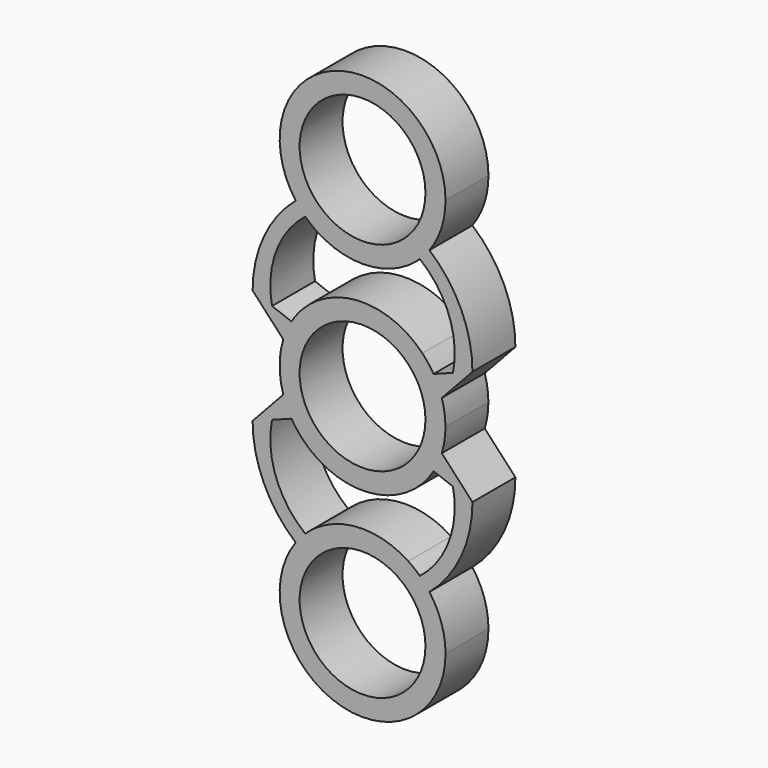
from build123d import *

# Parameters (mm, degrees)
F0_R     = 14.8844
F1_DEPTH = 12.7


with BuildPart() as f1:
    # F0 (on Front) → F1 (new body)
    with BuildSketch(Plane.XZ):
        with BuildLine():
            ThreePointArc((18.753434, -5.755985), (19.39983, -2.910195), (19.616897, 0))
            ThreePointArc((19.616897, 0), (19.39983, 2.910195), (18.753434, 5.755985))
            ThreePointArc((18.753434, 5.755985), (17.912598, 7.997593), (16.804959, 10.12008))
            ThreePointArc((16.804959, 10.12008), (15.580206, 11.919724), (14.163598, 13.572588))
            ThreePointArc((14.163598, 13.572588), (0, 19.616897), (-14.163598, 13.572588))
            ThreePointArc((-14.163598, 13.572588), (-15.580206, 11.919724), (-16.804959, 10.12008))
            ThreePointArc((-16.804959, 10.12008), (-17.912598, 7.997593), (-18.753434, 5.755985))
            ThreePointArc((-18.753434, 5.755985), (-19.616897, 0), (-18.753434, -5.755985))
            ThreePointArc((-18.753434, -5.755985), (-17.912598, -7.997593), (-16.804959, -10.12008))
            ThreePointArc((-16.804959, -10.12008), (-15.580206, -11.919724), (-14.163598, -13.572588))
            ThreePointArc((-14.163598, -13.572588), (0, -19.616897), (14.163598, -13.572588))
            ThreePointArc((14.163598, -13.572588), (15.580206, -11.919724), (16.804959, -10.12008))
            ThreePointArc((16.804959, -10.12008), (17.912598, -7.997593), (18.753434, -5.755985))
        make_face()
        Circle(F0_R, mode=Mode.SUBTRACT)
        with BuildLine():
            ThreePointArc((16.804959, 10.12008), (17.912598, 7.997593), (18.753434, 5.755985))
            Line((18.753434, 5.755985), (26.008787, 13.572588))
            Line((26.008787, 13.572588), (21.406873, 11.846334))
            Line((21.406873, 11.846334), (16.804959, 10.12008))
        make_face()
        with BuildLine():
            Line((26.008787, -13.572588), (18.753434, -5.755985))
            ThreePointArc((18.753434, -5.755985), (17.912598, -7.997593), (16.804959, -10.12008))
            Line((16.804959, -10.12008), (21.406873, -11.846334))
            Line((21.406873, -11.846334), (26.008787, -13.572588))
        make_face()
        with BuildLine():
            Line((21.406873, 11.846334), (26.008787, 13.572588))
            ThreePointArc((26.008787, 13.572588), (23.34089, 25.700425), (15.829779, 35.58907))
            ThreePointArc((15.829779, 35.58907), (14.751163, 34.247789), (13.559128, 33.006216))
            ThreePointArc((13.559128, 33.006216), (20.464916, 23.532203), (21.406873, 11.846334))
        make_face()
        with BuildLine():
            ThreePointArc((15.829779, -35.58907), (23.34089, -25.700425), (26.008787, -13.572588))
            Line((26.008787, -13.572588), (21.406873, -11.846334))
            ThreePointArc((21.406873, -11.846334), (20.464916, -23.532203), (13.559128, -33.006216))
            ThreePointArc((13.559128, -33.006216), (14.751163, -34.247789), (15.829779, -35.58907))
        make_face()
        with BuildLine():
            ThreePointArc((13.559128, 33.006216), (14.751163, 34.247789), (15.829779, 35.58907))
            ThreePointArc((15.829779, 35.58907), (18.659435, 41.090711), (19.634997, 47.19999))
            ThreePointArc((19.634997, 47.19999), (-6.078367, 65.845518), (-15.809521, 35.610811))
            ThreePointArc((-15.809521, 35.610811), (-14.732989, 34.268323), (-13.542948, 33.025342))
            ThreePointArc((-13.542948, 33.025342), (-12.221761, 31.870005), (-10.802599, 30.837377))
            ThreePointArc((-10.802599, 30.837377), (0.003007, 27.583099), (10.813609, 30.820746))
            ThreePointArc((10.813609, 30.820746), (12.235335, 31.851967), (13.559128, 33.006216))
        make_face()
        with Locations((0, 47.206701)):
            Circle(F0_R, mode=Mode.SUBTRACT)
        with BuildLine():
            ThreePointArc((19.634997, -47.19999), (18.659435, -41.090711), (15.829779, -35.58907))
            ThreePointArc((15.829779, -35.58907), (14.751163, -34.247789), (13.559128, -33.006216))
            ThreePointArc((13.559128, -33.006216), (12.235335, -31.851967), (10.813609, -30.820746))
            ThreePointArc((10.813609, -30.820746), (0.003007, -27.583099), (-10.802599, -30.837377))
            ThreePointArc((-10.802599, -30.837377), (-12.221761, -31.870005), (-13.542948, -33.025342))
            ThreePointArc((-13.542948, -33.025342), (-14.732989, -34.268323), (-15.809521, -35.610811))
            ThreePointArc((-15.809521, -35.610811), (-6.078367, -65.845518), (19.634997, -47.19999))
        make_face()
        with Locations((0, -47.206701)):
            Circle(F0_R, mode=Mode.SUBTRACT)
        with BuildLine():
            ThreePointArc((-18.753434, 5.755985), (-17.912598, 7.997593), (-16.804959, 10.12008))
            Line((-16.804959, 10.12008), (-21.406873, 11.846334))
            Line((-21.406873, 11.846334), (-26.008787, 13.572588))
            Line((-26.008787, 13.572588), (-18.753434, 5.755985))
        make_face()
        with BuildLine():
            ThreePointArc((-13.542948, 33.025342), (-14.732989, 34.268323), (-15.809521, 35.610811))
            ThreePointArc((-15.809521, 35.610811), (-23.336262, 25.714963), (-26.008787, 13.572588))
            Line((-26.008787, 13.572588), (-21.406873, 11.846334))
            ThreePointArc((-21.406873, 11.846334), (-20.463175, 23.545404), (-13.542948, 33.025342))
        make_face()
        with BuildLine():
            Line((-21.406873, -11.846334), (-16.804959, -10.12008))
            ThreePointArc((-16.804959, -10.12008), (-17.912598, -7.997593), (-18.753434, -5.755985))
            Line((-18.753434, -5.755985), (-26.008787, -13.572588))
            Line((-26.008787, -13.572588), (-21.406873, -11.846334))
        make_face()
        with BuildLine():
            ThreePointArc((-26.008787, -13.572588), (-23.336262, -25.714963), (-15.809521, -35.610811))
            ThreePointArc((-15.809521, -35.610811), (-14.732989, -34.268323), (-13.542948, -33.025342))
            ThreePointArc((-13.542948, -33.025342), (-20.463175, -23.545404), (-21.406873, -11.846334))
            Line((-21.406873, -11.846334), (-26.008787, -13.572588))
        make_face()
    extrude(amount=F1_DEPTH)


solid = f1.part
